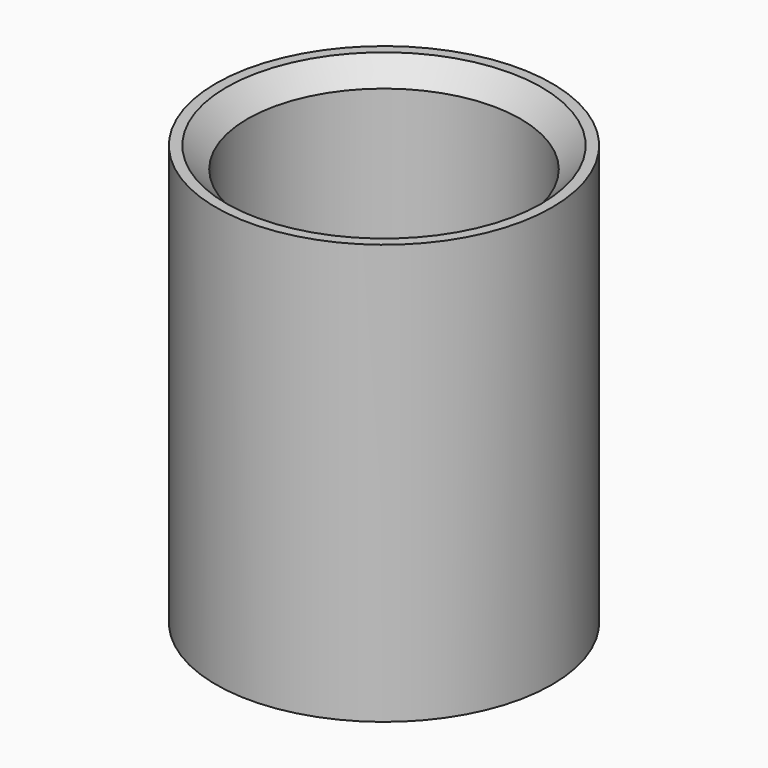
from build123d import *

# Parameters (mm, degrees)
SKETCH_R        = 8
SKETCH_R_2      = 6.5
PAD_DEPTH       = 20
CHAMFER_SIZE    = 1
CHAMFER001_SIZE = 1


with BuildPart() as part:
    # Sketch → Pad (new body)
    with BuildSketch(Plane.XY):
        Circle(SKETCH_R)
        Circle(SKETCH_R_2, mode=Mode.SUBTRACT)
    extrude(amount=PAD_DEPTH)

    # Chamfer
    chamfer_edges = [part.edges().sort_by_distance(p)[0] for p in [
        (-6.5, 0, 20),
    ]]
    chamfer(chamfer_edges, length=CHAMFER_SIZE)

    # Chamfer001
    chamfer001_edges = [part.edges().sort_by_distance(p)[0] for p in [
        (-6.5, 0, 0),
    ]]
    chamfer(chamfer001_edges, length=CHAMFER001_SIZE)


solid = part.part
